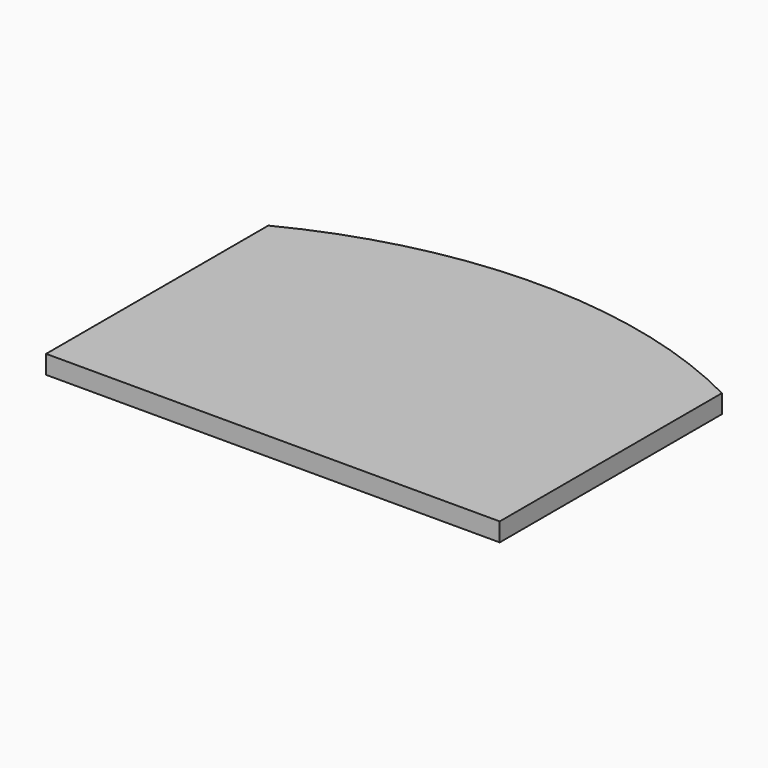
from build123d import *

# Parameters (mm, degrees)
F2_W     = 245
F2_H     = 150
F3_DEPTH = 10


with BuildPart() as f3:
    # F2 (on offset) → F3 (new body)
    with BuildSketch(Plane.XY.offset(100)):
        with Locations((0, 75)):
            Rectangle(F2_W, F2_H)
        with BuildLine():
            ThreePointArc((122.5, 150), (0, 179.4671), (-122.5, 150))
            Line((-122.5, 150), (122.5, 150))
        make_face()
    extrude(amount=F3_DEPTH)


solid = f3.part
